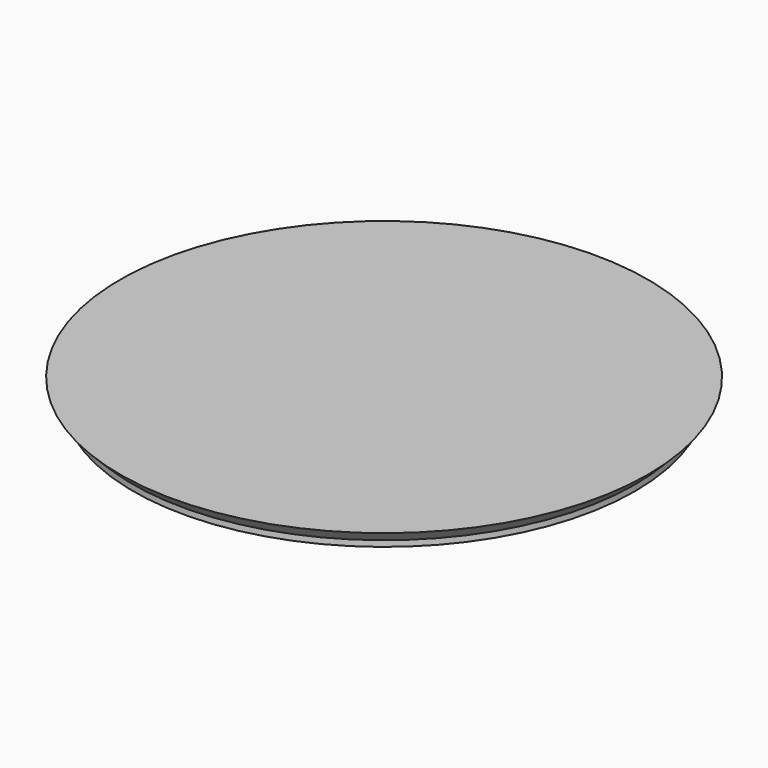
from build123d import *

# Parameters (mm, degrees)
F0_R      = 42.5037281142
F1_DEPTH  = 1
F1_FACE_R = 42.5037281142
F2_DEPTH  = 2.2
F2_TAPER  = -45


with BuildPart() as f1:
    # F0 (on Top) → F1 (new body)
    with BuildSketch(Plane.XY):
        Circle(F0_R)
    extrude(amount=F1_DEPTH)

    # F1_face (on face) → F2 (join)
    with BuildSketch(Plane.XY.offset(1)):
        Circle(F1_FACE_R)
    extrude(amount=F2_DEPTH, taper=F2_TAPER)


solid = f1.part
